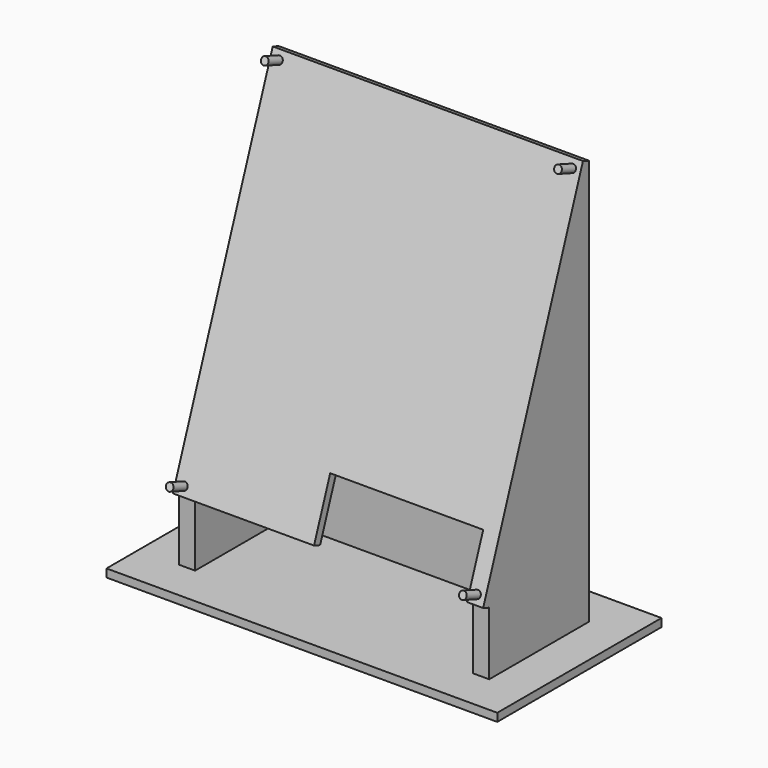
from build123d import *

# Parameters (mm, degrees)
SKETCH001_W  = 145.57
SKETCH001_H  = 76.477117
PAD_DEPTH    = 3
PAD001_DEPTH = 151
SKETCH004_W  = 234.832214
SKETCH004_H  = 173.073643
POCKET_DEPTH = 200
PAD002_DEPTH = 3
SKETCH003_R  = 1.4
PAD003_DEPTH = 10


with BuildPart() as part:
    # Sketch001 → Pad (new body)
    with BuildSketch(Plane.XY):
        with Locations((0, -3.210938)):
            Rectangle(SKETCH001_W, SKETCH001_H)
    extrude(amount=-PAD_DEPTH)

    # Sketch → Pad001 (join)
    with BuildSketch(Plane.XY):
        Polygon((51.785, -26.449496), (57.785, -26.449496), (57.785, 20.027621), (-57.785, 20.027621), (-57.785, -26.449496), (-51.785, -26.449496), (-51.785, 14.027621), (51.785, 14.027621), align=None)
    extrude(amount=PAD001_DEPTH)

    # Sketch004 (on DatumPlane) → Pocket (cut)
    with BuildSketch(Plane(origin=(0, -37.819078, 1.02606), x_dir=(1, 0, 0), z_dir=(0, -0.939693, 0.34202))):
        with Locations((5.697174, 86.536822)):
            Rectangle(SKETCH004_W, SKETCH004_H)
    extrude(amount=POCKET_DEPTH, mode=Mode.SUBTRACT)

    # Sketch002 (on DatumPlane) → Pad002 (join)
    with BuildSketch(Plane(origin=(0, -35, 0), x_dir=(1, 0, 0), z_dir=(0, -0.939693, 0.34202))):
        Polygon((-57.785, 160.89), (57.785, 160.89), (57.785, 25), (51.785, 25), (51.785, 47), (-5.215, 47), (-5.215, 25), (-57.785, 25), align=None)
    extrude(amount=PAD002_DEPTH)

    # Sketch003 (on DatumPlane) → Pad003 (join)
    with BuildSketch(Plane(origin=(0, -35, 0), x_dir=(1, 0, 0), z_dir=(0, -0.939693, 0.34202))):
        with Locations((-54.61, 157.715)):
            Circle(SKETCH003_R)
        with Locations((54.61, 157.715)):
            Circle(SKETCH003_R)
        with Locations((54.61, 28.175)):
            Circle(SKETCH003_R)
        with Locations((-54.61, 28.175)):
            Circle(SKETCH003_R)
    extrude(amount=PAD003_DEPTH)


solid = part.part
